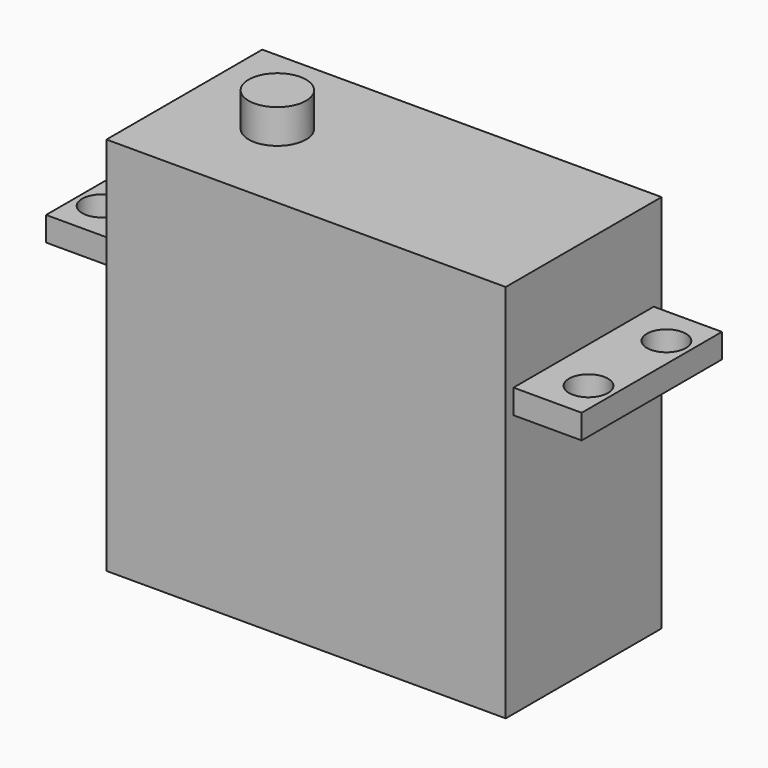
from build123d import *

# Parameters (mm, degrees)
F0_W     = 41
F0_H     = 20
F1_DEPTH = 27
F2_W     = 7
F2_H     = 18
F2_R     = 2
F3_DEPTH = 2.5
F4_DEPTH = 12
F5_R     = 2.95
F6_DEPTH = 3.5


with BuildPart() as f1:
    # F0 (on Top) → F1 (new body)
    with BuildSketch(Plane.XY):
        Rectangle(F0_W, F0_H)
    extrude(amount=F1_DEPTH)

    # F2 (on face) → F3 (join)
    with BuildSketch(Plane.XY.offset(27)):
        Polygon((20.5, 9), (20.5, 10), (-20.5, 10), (-20.5, 9), (-20.5, -9), (-20.5, -10), (20.5, -10), (20.5, -9), align=None)
        with Locations((24, 0)):
            Rectangle(F2_W, F2_H)
        with Locations((25, -5)):
            Circle(F2_R, mode=Mode.SUBTRACT)
        with Locations((25, 5)):
            Circle(F2_R, mode=Mode.SUBTRACT)
        with Locations((-24, 0)):
            Rectangle(F2_W, F2_H)
        with Locations((-25, -5)):
            Circle(F2_R, mode=Mode.SUBTRACT)
        with Locations((-25, 5)):
            Circle(F2_R, mode=Mode.SUBTRACT)
    extrude(amount=F3_DEPTH)

    # F2 (on face) → F4 (join)
    with BuildSketch(Plane.XY.offset(27)):
        Polygon((20.5, 9), (20.5, 10), (-20.5, 10), (-20.5, 9), (-20.5, -9), (-20.5, -10), (20.5, -10), (20.5, -9), align=None)
    extrude(amount=F4_DEPTH)

    # F5 (on face) → F6 (join)
    with BuildSketch(Plane.XY.offset(39)):
        with Locations((-10.95, 0)):
            Circle(F5_R)
    extrude(amount=F6_DEPTH)


solid = f1.part
